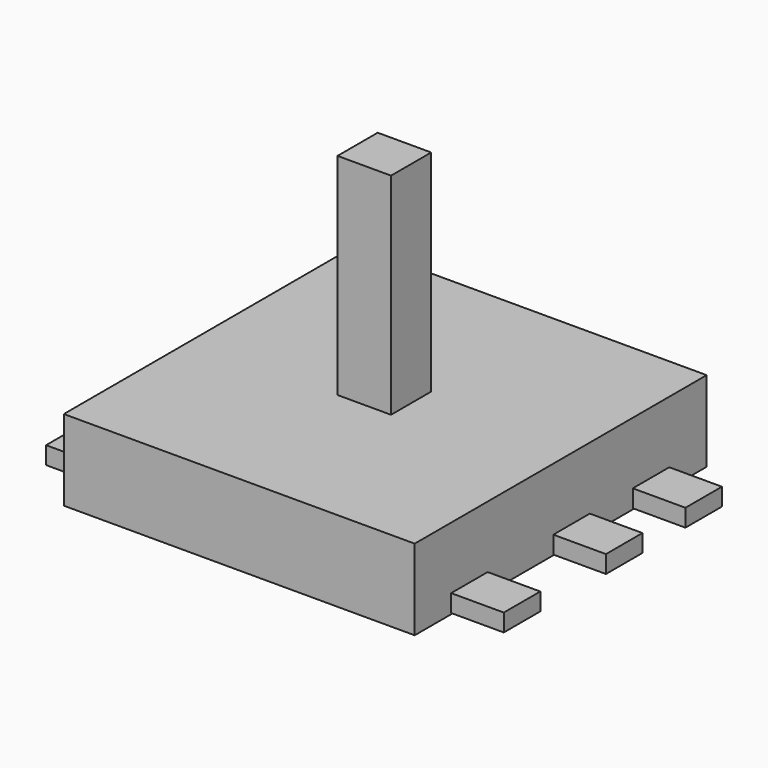
from build123d import *

# Parameters (mm, degrees)
SKETCH_W     = 10
SKETCH_H     = 10.4
PAD_DEPTH    = 2.3
SKETCH001_W  = 1.3
SKETCH001_H  = 0.5
PAD001_DEPTH = 1.5
SKETCH002_W  = 1.3
SKETCH002_H  = 0.5
PAD002_DEPTH = 1.5
SKETCH003_W  = 1.3
SKETCH003_H  = 0.5
PAD003_DEPTH = 1.5
SKETCH004_W  = 1.3
SKETCH004_H  = 0.5
PAD004_DEPTH = 1.5
SKETCH005_W  = 1.3
SKETCH005_H  = 0.5
PAD005_DEPTH = 1.5
SKETCH006_W  = 1.3
SKETCH006_H  = 0.5
PAD006_DEPTH = 1.5
SKETCH007_W  = 1.524746
SKETCH007_H  = 1.431121
PAD007_DEPTH = 6


with BuildPart() as part:
    # Sketch → Pad (new body)
    with BuildSketch(Plane.XY):
        with Locations((0.012443, -0.028336)):
            Rectangle(SKETCH_W, SKETCH_H)
    extrude(amount=PAD_DEPTH)

    # Sketch001 (on Face3 of Pad) → Pad001 (join)
    with BuildSketch(Plane.YZ.offset(5.012443)):
        with Locations((-3.28001, 0.28105)):
            Rectangle(SKETCH001_W, SKETCH001_H)
    extrude(amount=PAD001_DEPTH)

    # Sketch002 (on Face6 of Pad001) → Pad002 (join)
    with BuildSketch(Plane.YZ.offset(5.012443)):
        with Locations((0.359535, 0.268131)):
            Rectangle(SKETCH002_W, SKETCH002_H)
    extrude(amount=PAD002_DEPTH)

    # Sketch003 (on Face6 of Pad002) → Pad003 (join)
    with BuildSketch(Plane.YZ.offset(5.012443)):
        with Locations((3.190832, 0.279882)):
            Rectangle(SKETCH003_W, SKETCH003_H)
    extrude(amount=PAD003_DEPTH)

    # Sketch004 (on Face1 of Pad003) → Pad004 (join)
    with BuildSketch(Plane(origin=(-4.987557, 0, 0), x_dir=(0, -1, 0), z_dir=(-1, 0, 0))):
        with Locations((-3.189646, 0.270427)):
            Rectangle(SKETCH004_W, SKETCH004_H)
    extrude(amount=PAD004_DEPTH)

    # Sketch005 (on Face1 of Pad004) → Pad005 (join)
    with BuildSketch(Plane(origin=(-4.987557, 0, 0), x_dir=(0, -1, 0), z_dir=(-1, 0, 0))):
        with Locations((-0.344432, 0.283241)):
            Rectangle(SKETCH005_W, SKETCH005_H)
    extrude(amount=PAD005_DEPTH)

    # Sketch006 (on Face1 of Pad005) → Pad006 (join)
    with BuildSketch(Plane(origin=(-4.987557, 0, 0), x_dir=(0, -1, 0), z_dir=(-1, 0, 0))):
        with Locations((3.335277, 0.275285)):
            Rectangle(SKETCH006_W, SKETCH006_H)
    extrude(amount=PAD006_DEPTH)

    # Sketch007 (on Face4 of Pad006) → Pad007 (join)
    with BuildSketch(Plane.XY.offset(2.3)):
        with Locations((-0.040806, 0.007327)):
            Rectangle(SKETCH007_W, SKETCH007_H)
    extrude(amount=PAD007_DEPTH)


solid = part.part
